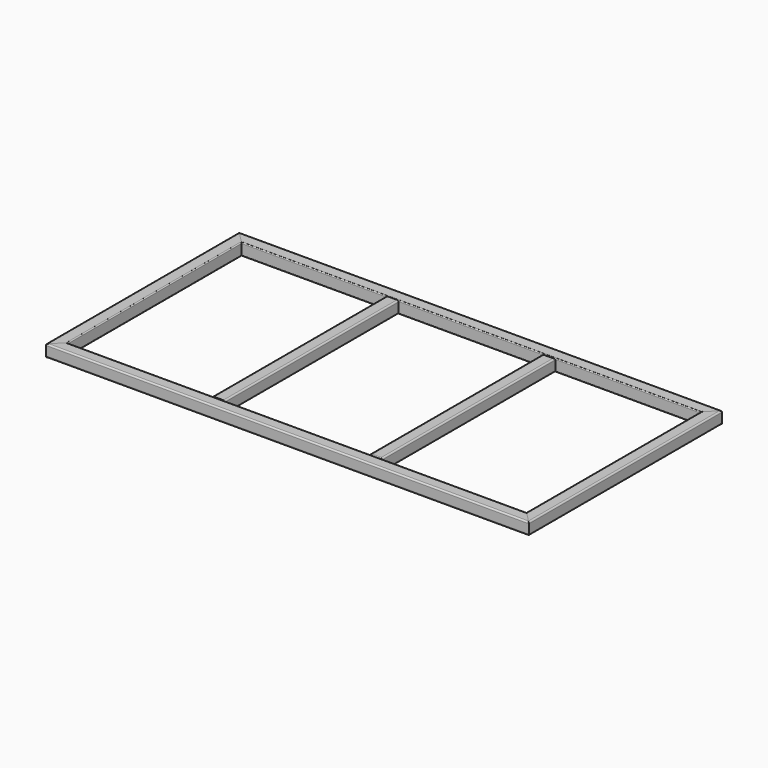
from build123d import *

# Parameters (mm, degrees)
F1_DEPTH  = 25
F2_R      = 2
F4_DEPTH  = 25
F5_R      = 2
F7_DEPTH  = 25
F8_R      = 3
F10_DEPTH = 25
F11_R     = 3
F12_W     = 25
F12_H     = 450
F13_DEPTH = 25
F14_R     = 3


with BuildPart() as f1:
    # F0 (on Top) → F1 (new body)
    with BuildSketch(Plane.XY):
        Polygon((-533.415433, 225), (-558.415433, 250), (-558.415433, -250), (-533.415433, -225), align=None)
    extrude(amount=F1_DEPTH)

    # F2
    f2_edges = [f1.edges().sort_by_distance(p)[0] for p in [
        (-533.415433, 0, 25),
        (-533.415433, 0, 0),
        (-558.415433, 0, 0),
        (-558.415433, 0, 25),
    ]]
    fillet(f2_edges, radius=F2_R)


with BuildPart() as f4:
    # F3 (on Top) → F4 (new body)
    with BuildSketch(Plane.XY):
        Polygon((441.584567, 250), (-558.415433, 250), (-533.415433, 225), (416.584567, 225), align=None)
    extrude(amount=F4_DEPTH)

    # F5
    f5_edges = [f4.edges().sort_by_distance(p)[0] for p in [
        (-58.415433, 225, 25),
        (-58.415433, 250, 25),
        (-58.415433, 250, 0),
        (-58.415433, 225, 0),
    ]]
    fillet(f5_edges, radius=F5_R)


with BuildPart() as f7:
    # F6 (on Top) → F7 (new body)
    with BuildSketch(Plane.XY):
        Polygon((-533.415433, -225), (-558.415433, -250), (441.584567, -250), (416.584567, -225), align=None)
    extrude(amount=F7_DEPTH)

    # F8
    f8_edges = [f7.edges().sort_by_distance(p)[0] for p in [
        (-58.415433, -250, 25),
        (-58.415433, -225, 25),
        (-58.415433, -250, 0),
        (-58.415433, -225, 0),
    ]]
    fillet(f8_edges, radius=F8_R)


with BuildPart() as f10:
    # F9 (on Top) → F10 (new body)
    with BuildSketch(Plane.XY):
        Polygon((416.584567, -225), (441.584567, -250), (441.584567, 250), (416.584567, 225), align=None)
    extrude(amount=F10_DEPTH)

    # F11
    f11_edges = [f10.edges().sort_by_distance(p)[0] for p in [
        (441.584567, 0, 25),
        (416.584567, 0, 25),
        (441.584567, 0, 0),
        (416.584567, 0, 0),
    ]]
    fillet(f11_edges, radius=F11_R)


with BuildPart() as f13:
    # F12 (on face) → F13 (new body)
    with BuildSketch(Plane.XY.offset(25)):
        with Locations((-220.915433, 0)):
            Rectangle(F12_W, F12_H)
        with Locations((104.084567, 0)):
            Rectangle(F12_W, F12_H)
    extrude(amount=-F13_DEPTH)

    # F14
    f14_edges = [f13.edges().sort_by_distance(p)[0] for p in [
        (-208.415433, 0, 25),
        (-233.415433, 0, 25),
        (-208.415433, 0, 0),
        (104.084567, 225, 25),
        (91.584567, 0, 25),
        (104.084567, -225, 25),
        (116.584567, 0, 25),
        (116.584567, 0, 0),
        (91.584567, 0, 0),
        (-233.415433, 0, 0),
    ]]
    fillet(f14_edges, radius=F14_R)


solid = Compound([f1.part, f4.part, f7.part, f10.part, f13.part])
